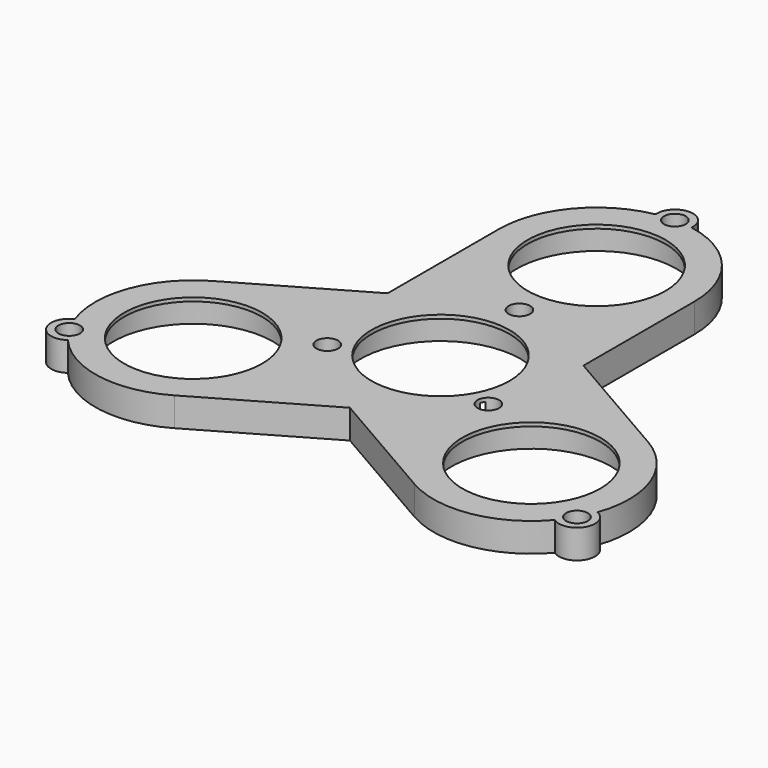
from build123d import *

# Parameters (mm, degrees)
F0_R     = 11.05
F1_DEPTH = 3.5
F2_R     = 11.05
F2_R_2   = 9.55
F3_DEPTH = 0.5
F4_R     = 1.5
F5_DEPTH = 2
F6_R     = 0.9
F6_R_2   = 0.9063368872
F7_DEPTH = 2


with BuildPart() as f1:
    # F0 (on Top) → F1 (new body)
    with BuildSketch(Plane.XY):
        with BuildLine():
            ThreePointArc((-2.4893394798, 39.5443588099), (-10.4243237179, 34.8815428811), (-13.55, 26.2249861161))
            Line((-13.55, 26.2249861161), (-13.55, 7.0192147502))
            Line((-13.55, 7.0192147502), (-30.1826859022, -2.5836709328))
            ThreePointArc((-30.1826859022, -2.5836709328), (-36.1166458289, -9.6188643795), (-36.1872707573, -18.8221702728))
            ThreePointArc((-36.1872707573, -18.8221702728), (-35.1423301235, -21.093315154), (-33.6979312775, -23.133832729))
            ThreePointArc((-33.6979312775, -23.133832729), (-25.692322111, -27.6743226935), (-16.6326859022, -26.0529593753))
            Line((-16.6326859022, -26.0529593753), (0, -16.4500736924))
            Line((0, -16.4500736924), (16.6326859022, -26.0529593753))
            ThreePointArc((16.6326859022, -26.0529593753), (25.692322111, -27.6743226935), (33.6979312775, -23.133832729))
            ThreePointArc((33.6979312775, -23.133832729), (35.1423301235, -21.093315154), (36.1872707573, -18.8221702728))
            ThreePointArc((36.1872707573, -18.8221702728), (36.1166458289, -9.6188643795), (30.1826859022, -2.5836709328))
            Line((30.1826859022, -2.5836709328), (13.55, 7.0192147502))
            Line((13.55, 7.0192147502), (13.55, 26.2249861161))
            ThreePointArc((13.55, 26.2249861161), (10.4243237179, 34.8815428811), (2.4893394798, 39.5443588099))
            ThreePointArc((2.4893394798, 39.5443588099), (0, 39.7749861161), (-2.4893394798, 39.5443588099))
        make_face()
        with Locations((-23.4076859022, -14.318315154)):
            Circle(F0_R, mode=Mode.SUBTRACT)
        with Locations((0, -0.7750138839)):
            Circle(F0_R, mode=Mode.SUBTRACT)
        with Locations((23.4076859022, -14.318315154)):
            Circle(F0_R, mode=Mode.SUBTRACT)
        with Locations((0, 26.2249861161)):
            Circle(F0_R, mode=Mode.SUBTRACT)
        with BuildLine():
            ThreePointArc((2.4893394798, 39.5443588099), (0, 42.2749861161), (-2.4893394798, 39.5443588099))
            ThreePointArc((-2.4893394798, 39.5443588099), (0, 39.7749861161), (2.4893394798, 39.5443588099))
        make_face()
        with BuildLine():
            ThreePointArc((-33.6979312775, -23.133832729), (-35.1423301235, -21.093315154), (-36.1872707573, -18.8221702728))
            ThreePointArc((-36.1872707573, -18.8221702728), (-37.3073936329, -22.343315154), (-33.6979312775, -23.133832729))
        make_face()
        with BuildLine():
            ThreePointArc((33.6979312775, -23.133832729), (37.3073936329, -22.343315154), (36.1872707573, -18.8221702728))
            ThreePointArc((36.1872707573, -18.8221702728), (35.1423301235, -21.093315154), (33.6979312775, -23.133832729))
        make_face()
    extrude(amount=F1_DEPTH)

    # F2 (on face) → F3 (join)
    with BuildSketch(Plane.XY.offset(3.5)):
        with BuildLine():
            Line((13.55, 7.0192147502), (13.55, 26.2249861161))
            ThreePointArc((13.55, 26.2249861161), (10.4243237179, 34.8815428811), (2.4893394798, 39.5443588099))
            ThreePointArc((2.4893394798, 39.5443588099), (0, 42.2749861161), (-2.4893394798, 39.5443588099))
            ThreePointArc((-2.4893394798, 39.5443588099), (-10.4243237179, 34.8815428811), (-13.55, 26.2249861161))
            Line((-13.55, 26.2249861161), (-13.55, 7.0192147502))
            Line((-13.55, 7.0192147502), (-30.1826859022, -2.5836709328))
            ThreePointArc((-30.1826859022, -2.5836709328), (-36.1166458289, -9.6188643795), (-36.1872707573, -18.8221702728))
            ThreePointArc((-36.1872707573, -18.8221702728), (-37.3073936329, -22.343315154), (-33.6979312775, -23.133832729))
            ThreePointArc((-33.6979312775, -23.133832729), (-25.692322111, -27.6743226935), (-16.6326859022, -26.0529593753))
            Line((-16.6326859022, -26.0529593753), (0, -16.4500736924))
            Line((0, -16.4500736924), (16.6326859022, -26.0529593753))
            ThreePointArc((16.6326859022, -26.0529593753), (25.692322111, -27.6743226935), (33.6979312775, -23.133832729))
            ThreePointArc((33.6979312775, -23.133832729), (37.3073936329, -22.343315154), (36.1872707573, -18.8221702728))
            ThreePointArc((36.1872707573, -18.8221702728), (36.1166458289, -9.6188643795), (30.1826859022, -2.5836709328))
            Line((30.1826859022, -2.5836709328), (13.55, 7.0192147502))
        make_face()
        with Locations((-23.4076859022, -14.318315154)):
            Circle(F2_R, mode=Mode.SUBTRACT)
        with Locations((0, -0.7750138839)):
            Circle(F2_R, mode=Mode.SUBTRACT)
        with Locations((23.4076859022, -14.318315154)):
            Circle(F2_R, mode=Mode.SUBTRACT)
        with Locations((0, 26.2249861161)):
            Circle(F2_R, mode=Mode.SUBTRACT)
        with Locations((0, 26.2249861161)):
            Circle(F2_R)
        with Locations((0, 26.2249861161)):
            Circle(F2_R_2, mode=Mode.SUBTRACT)
        with Locations((0, -0.7750138839)):
            Circle(F2_R)
        with Locations((0, -0.7750138839)):
            Circle(F2_R_2, mode=Mode.SUBTRACT)
        with Locations((-23.4076859022, -14.318315154)):
            Circle(F2_R)
        with Locations((-23.4076859022, -14.318315154)):
            Circle(F2_R_2, mode=Mode.SUBTRACT)
        with Locations((23.4076859022, -14.318315154)):
            Circle(F2_R)
        with Locations((23.4076859022, -14.318315154)):
            Circle(F2_R_2, mode=Mode.SUBTRACT)
    extrude(amount=F3_DEPTH)

    # F4 (on face) → F5 (cut)
    with BuildSketch(Plane.XY.offset(4)):
        with Locations((0, 39.7749861161)):
            Circle(F4_R)
        with Locations((-35.1423301235, -21.093315154)):
            Circle(F4_R)
        with Locations((35.1423301235, -21.093315154)):
            Circle(F4_R)
        with Locations((0, 12.8714358434)):
            Circle(F4_R)
        with Locations((-11.1469904236, -6.4357179217)):
            Circle(F4_R)
        with Locations((11.1469904236, -6.4357179217)):
            Circle(F4_R)
    extrude(amount=-F5_DEPTH, mode=Mode.SUBTRACT)

    # F6 (on face) → F7 (cut, through all)
    with BuildSketch(Plane.XY.offset(2)):
        with Locations((0, 39.7749861161)):
            Circle(F6_R)
        with Locations((0, 12.8714358434)):
            Circle(F6_R)
        with Locations((-11.1469904236, -6.4357179217)):
            Circle(F6_R_2)
        with Locations((-35.1423301235, -21.093315154)):
            Circle(F6_R_2)
        with Locations((11.1469904236, -6.4357179217)):
            Circle(F6_R_2)
        with Locations((35.1423301235, -21.093315154)):
            Circle(F6_R_2)
    extrude(amount=-F7_DEPTH, mode=Mode.SUBTRACT)


solid = f1.part
